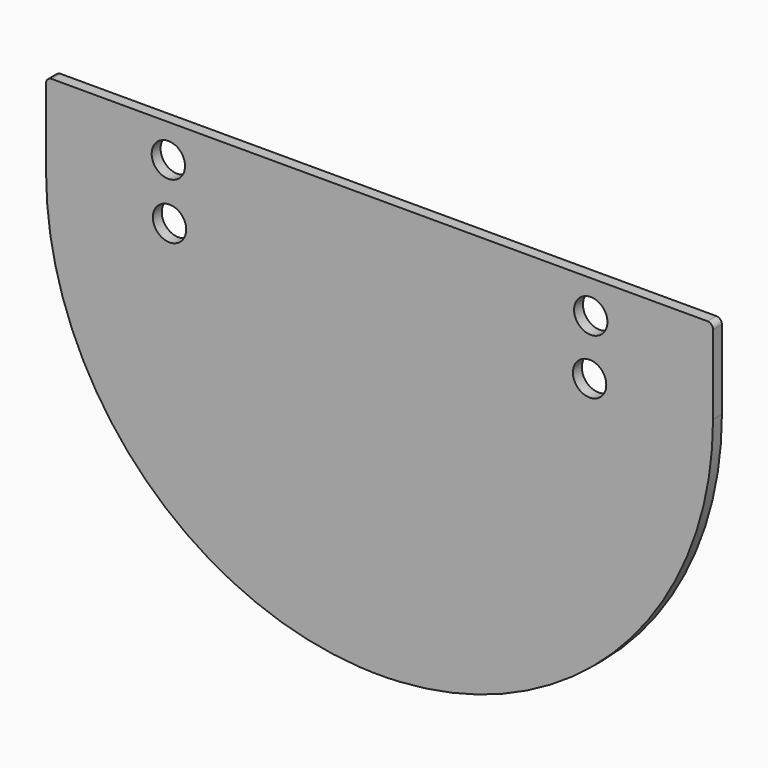
from build123d import *

# Parameters (mm, degrees)
F0_R     = 15
F1_DEPTH = 10


with BuildPart() as f1:
    # F0 (on Front) → F1 (new body)
    with BuildSketch(Plane.XZ):
        with BuildLine():
            Line((-300, 71.2), (-300, 0))
            ThreePointArc((-300, 0), (-218.441297, -205.629277), (-18.110669, -299.45284))
            ThreePointArc((-18.110669, -299.45284), (0, -300), (18.110669, -299.45284))
            ThreePointArc((18.110669, -299.45284), (218.441297, -205.629277), (300, 0))
            Line((300, 0), (300, 71.2))
            ThreePointArc((300, 71.2), (298.535534, 74.735534), (295, 76.2))
            Line((295, 76.2), (-295, 76.2))
            ThreePointArc((-295, 76.2), (-298.535534, 74.735534), (-300, 71.2))
        make_face()
        with Locations((-188.958567, -3.789153)):
            Circle(F0_R, mode=Mode.SUBTRACT)
        with Locations((-190, 46.2)):
            Circle(F0_R, mode=Mode.SUBTRACT)
        with Locations((188.958567, -3.789153)):
            Circle(F0_R, mode=Mode.SUBTRACT)
        with Locations((190, 46.2)):
            Circle(F0_R, mode=Mode.SUBTRACT)
    extrude(amount=F1_DEPTH)


solid = f1.part
